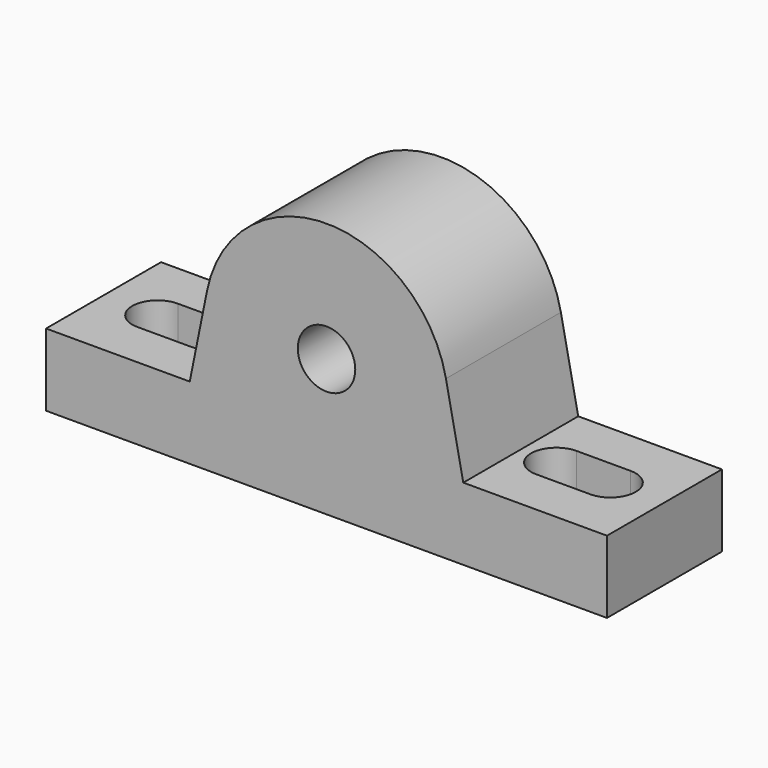
from build123d import *

# Parameters (mm, degrees)
F0_R     = 6.35
F1_DEPTH = 31.75
F3_DEPTH = 127


with BuildPart() as f1:
    # F0 (on Front) → F1 (new body)
    with BuildSketch(Plane.XZ):
        with BuildLine():
            Line((-61.976, 16.002), (-61.976, 0))
            Line((-61.976, 0), (61.976, 0))
            Line((61.976, 0), (61.976, 16.002))
            Line((61.976, 16.002), (30.226, 16.002))
            Line((30.226, 16.002), (26.391128, 34.989695))
            ThreePointArc((26.391128, 34.989695), (0, 56.58358), (-26.391128, 34.989695))
            Line((-26.391128, 34.989695), (-30.226, 16.002))
            Line((-30.226, 16.002), (-61.976, 16.002))
        make_face()
        with Locations((0, 30.226)):
            Circle(F0_R, mode=Mode.SUBTRACT)
    extrude(amount=F1_DEPTH)

    # F2 (on face) → F3 (cut)
    with BuildSketch(Plane(origin=(0, 0, 0), x_dir=(1, 0, 0), z_dir=(0, 0, -1))):
        with BuildLine():
            Line((-38.1, 21.463), (-50.038, 21.463))
            ThreePointArc((-50.038, 21.463), (-55.626, 15.875), (-50.038, 10.287))
            Line((-50.038, 10.287), (-38.1, 10.287))
            ThreePointArc((-38.1, 10.287), (-32.512, 15.875), (-38.1, 21.463))
        make_face()
        with BuildLine():
            Line((50.038, 21.463), (38.1, 21.463))
            ThreePointArc((38.1, 21.463), (32.512, 15.875), (38.1, 10.287))
            Line((38.1, 10.287), (50.038, 10.287))
            ThreePointArc((50.038, 10.287), (55.626, 15.875), (50.038, 21.463))
        make_face()
    extrude(amount=-F3_DEPTH, mode=Mode.SUBTRACT)


solid = f1.part
